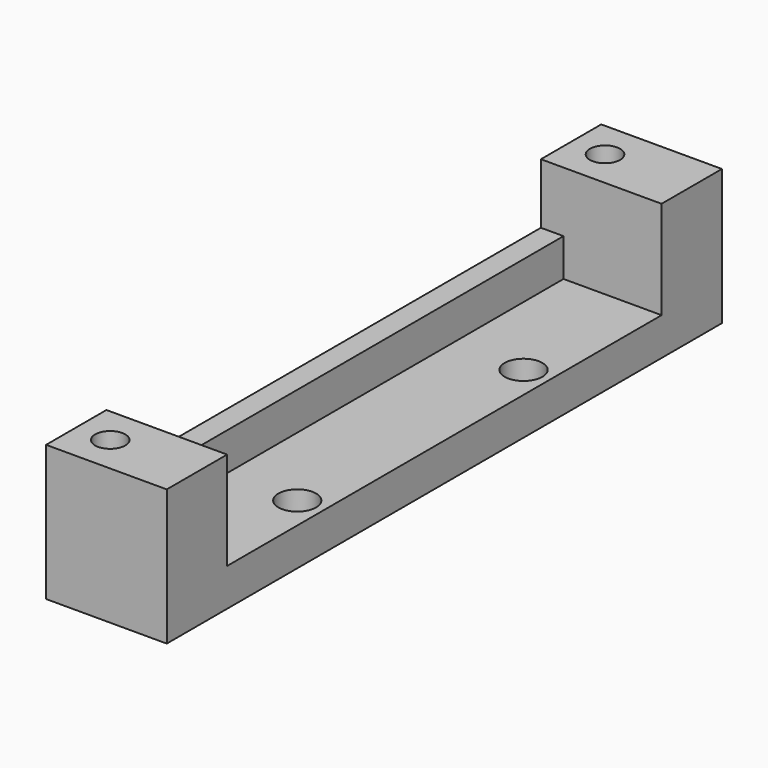
from build123d import *

# Parameters (mm, degrees)
F0_W     = 16
F0_H     = 92
F0_R     = 2.5
F1_DEPTH = 5
F3_DEPTH = 13
F2_W     = 3
F2_H     = 72
F4_DEPTH = 5
F5_R     = 2
F6_DEPTH = 25


with BuildPart() as f1:
    # F0 (on Top) → F1 (new body)
    with BuildSketch(Plane.XY):
        Rectangle(F0_W, F0_H)
        with Locations((4.5, -20)):
            Circle(F0_R, mode=Mode.SUBTRACT)
        with Locations((4.5, 17.5)):
            Circle(F0_R, mode=Mode.SUBTRACT)
    extrude(amount=F1_DEPTH)

    # F2 (on face) → F3 (join)
    with BuildSketch(Plane.XY.offset(5)):
        Polygon((-5, -36), (-8, -36), (-8, -46), (8, -46), (8, -36), align=None)
        Polygon((8, 46), (-8, 46), (-8, 36), (-5, 36), (8, 36), align=None)
    extrude(amount=F3_DEPTH)

    # F2 (on face) → F4 (join)
    with BuildSketch(Plane.XY.offset(5)):
        Polygon((8, 46), (-8, 46), (-8, 36), (-5, 36), (8, 36), align=None)
        with Locations((-6.5, 0)):
            Rectangle(F2_W, F2_H)
        Polygon((-5, -36), (-8, -36), (-8, -46), (8, -46), (8, -36), align=None)
    extrude(amount=F4_DEPTH)

    # F5 (on face) → F6 (cut)
    with BuildSketch(Plane(origin=(0, 0, 0), x_dir=(1, 0, 0), z_dir=(0, 0, -1))):
        with Locations((-3.5, -41)):
            Circle(F5_R)
        with Locations((-3.5, 41)):
            Circle(F5_R)
    extrude(amount=-F6_DEPTH, mode=Mode.SUBTRACT)


solid = f1.part
